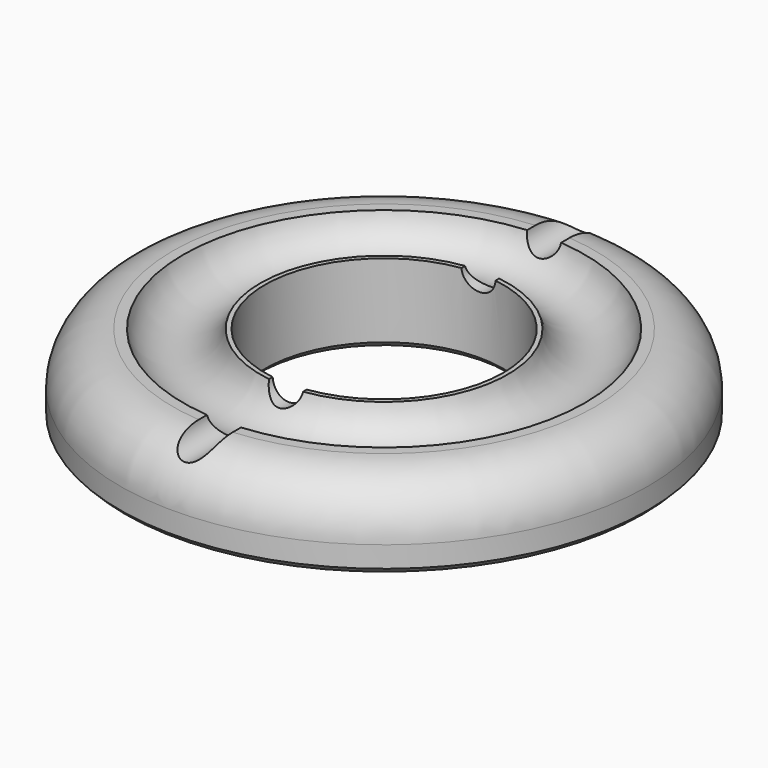
from build123d import *

# Parameters (mm, degrees)
F0_R     = 254
F1_DEPTH = 76.2
F2_R     = 50.8
F3_SIZE  = 5.08
F4_R     = 114.7296539916
F5_DEPTH = 76.201
F6_R     = 38.1
F8_R     = 16.3985749671
F9_DEPTH = 388.62
F10_SIZE = 5.08


with BuildPart() as f1:
    # F0 (on Top) → F1 (new body)
    with BuildSketch(Plane.XY):
        Circle(F0_R)
    extrude(amount=F1_DEPTH)

    # F2
    f2_edges = [f1.edges().sort_by_distance(p)[0] for p in [
        (-254, 0, 76.2),
    ]]
    fillet(f2_edges, radius=F2_R)

    # F3
    f3_edges = [f1.edges().sort_by_distance(p)[0] for p in [
        (-254, 0, 0),
    ]]
    chamfer(f3_edges, length=F3_SIZE)

    # F4 (on face) → F5 (cut, through all)
    with BuildSketch(Plane.XY.offset(76.2)):
        Circle(F4_R)
    extrude(amount=-F5_DEPTH, mode=Mode.SUBTRACT)

    # F6 (on Front) → F7 (revolve, cut)
    with BuildSketch(Plane.XZ):
        with Locations((-156.143784523, 84.9872082472)):
            Circle(F6_R)
    revolve(axis=Axis((0, 0, 25.4), (0, 0, 1)), mode=Mode.SUBTRACT)

    # F8 (on Front) → F9 (cut, symmetric)
    with BuildSketch(Plane.XZ):
        with Locations((0, 77.1225020289)):
            Circle(F8_R)
    extrude(amount=F9_DEPTH, both=True, mode=Mode.SUBTRACT)

    # F10
    f10_edges = [f1.edges().sort_by_distance(p)[0] for p in [
        (-114.729654, 0, 0),
    ]]
    chamfer(f10_edges, length=F10_SIZE)


solid = f1.part
